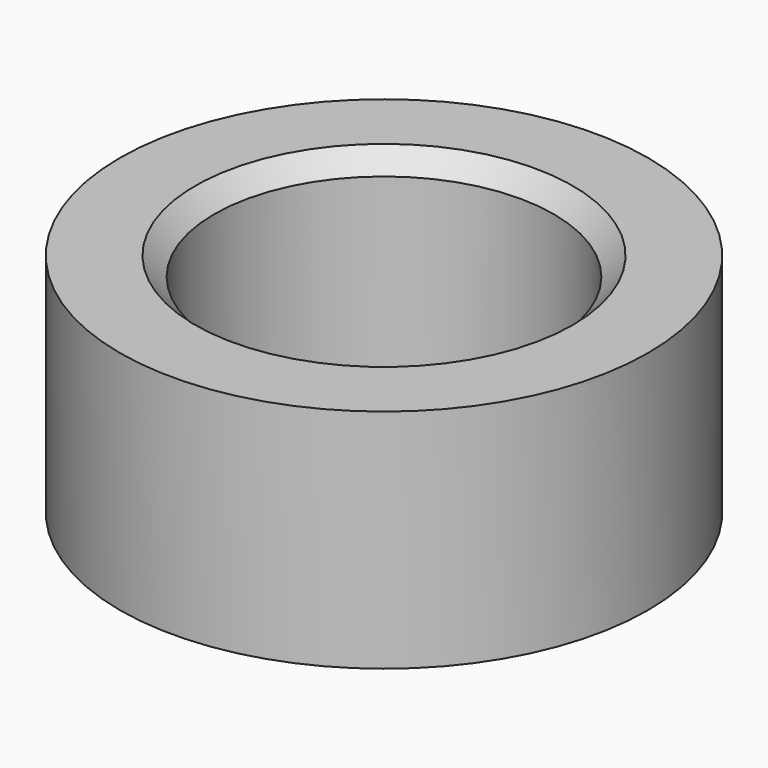
from build123d import *

# Parameters (mm, degrees)
F0_R     = 7
F0_R_2   = 4.5
F1_DEPTH = 6
F2_SIZE2 = 0.5
F2_SIZE  = 0.5


with BuildPart() as f1:
    # F0 (on Top) → F1 (new body)
    with BuildSketch(Plane.XY):
        Circle(F0_R)
        Circle(F0_R_2, mode=Mode.SUBTRACT)
    extrude(amount=F1_DEPTH)

    # F2
    f2_edges = [f1.edges().sort_by_distance(p)[0] for p in [
        (4.5, 0, 3),
        (-4.5, 0, 0),
        (-4.5, 0, 6),
    ]]
    chamfer(f2_edges, length=F2_SIZE, length2=F2_SIZE2)


solid = f1.part
